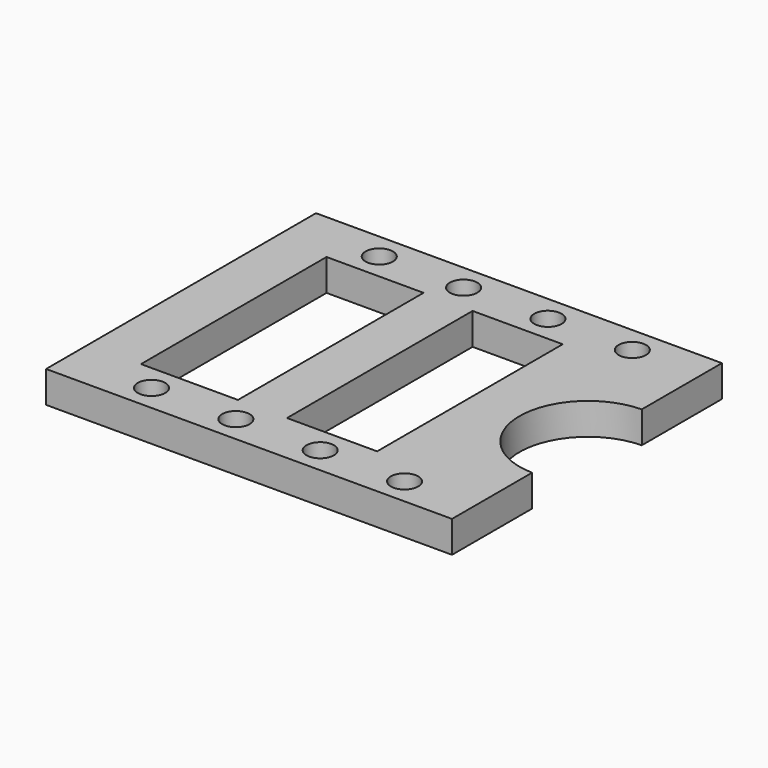
from build123d import *

# Parameters (mm, degrees)
F0_W     = 38.5
F0_H     = 32
F1_DEPTH = 3
F2_W     = 9.2
F2_H     = 22
F2_R     = 6.5
F2_W_2   = 8.55
F2_R_2   = 1.3
F3_DEPTH = 3.001


with BuildPart() as f1:
    # F0 (on Top) → F1 (new body)
    with BuildSketch(Plane.XY):
        Rectangle(F0_W, F0_H)
    extrude(amount=F1_DEPTH)

    # F2 (on Top) → F3 (cut, through all)
    with BuildSketch(Plane.XY):
        with Locations((-9.65, 0)):
            Rectangle(F2_W, F2_H)
        with Locations((19.349456, 0)):
            Circle(F2_R)
        with Locations((3.875, 0)):
            Rectangle(F2_W_2, F2_H)
        with Locations((-11.25, -13.5)):
            Circle(F2_R_2)
        with Locations((-3.25, -13.5)):
            Circle(F2_R_2)
        with Locations((4.75, -13.5)):
            Circle(F2_R_2)
        with Locations((12.75, -13.5)):
            Circle(F2_R_2)
        with Locations((-11.25, 13.5)):
            Circle(F2_R_2)
        with Locations((-3.25, 13.5)):
            Circle(F2_R_2)
        with Locations((4.75, 13.5)):
            Circle(F2_R_2)
        with Locations((12.75, 13.5)):
            Circle(F2_R_2)
    extrude(amount=F3_DEPTH, mode=Mode.SUBTRACT)


solid = f1.part
